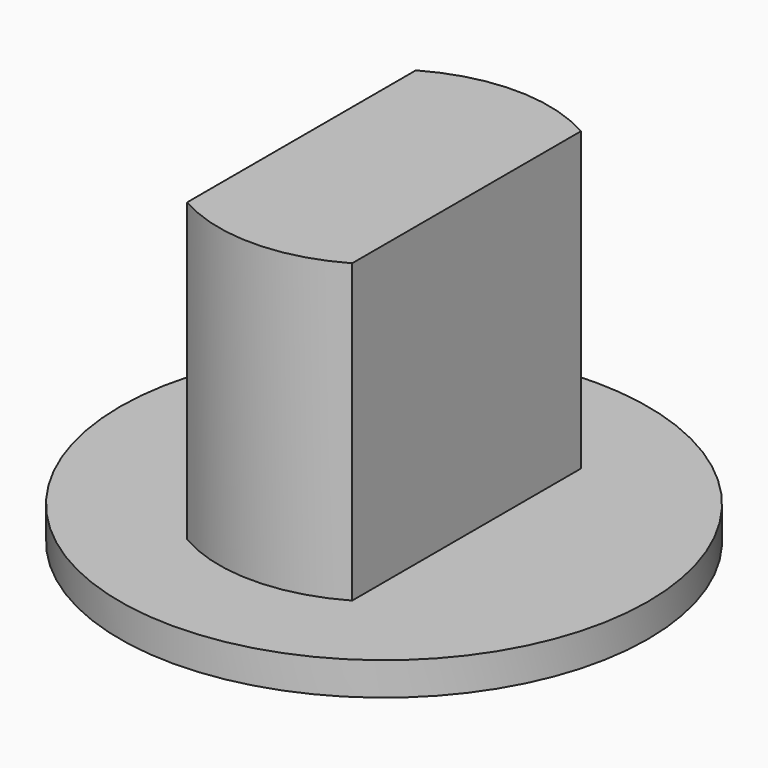
from build123d import *

# Parameters (mm, degrees)
BOX_W             = 10
BOX_H             = 20
BOX_DEPTH         = 20
CYLINDER002_R     = 10
CYLINDER002_DEPTH = 20
CYLINDER_R        = 16
CYLINDER_DEPTH    = 2


with BuildPart() as box:
    # Box → Box (new body)
    with BuildSketch(Plane(origin=(-5, -10, 0), x_dir=(1, 0, 0), z_dir=(0, 0, 1))):
        with Locations((5, 10)):
            Rectangle(BOX_W, BOX_H)
    extrude(amount=BOX_DEPTH)


with BuildPart() as common:
    # Cylinder002 → Cylinder002 (new body)
    with BuildSketch(Plane.XY):
        Circle(CYLINDER002_R)
    extrude(amount=CYLINDER002_DEPTH)

    # Common: intersect Box
    add(box.part, mode=Mode.INTERSECT)


with BuildPart() as cylinder:
    # Cylinder → Cylinder (new body)
    with BuildSketch(Plane.XY):
        Circle(CYLINDER_R)
    extrude(amount=CYLINDER_DEPTH)


solid = Compound([common.part, cylinder.part])
